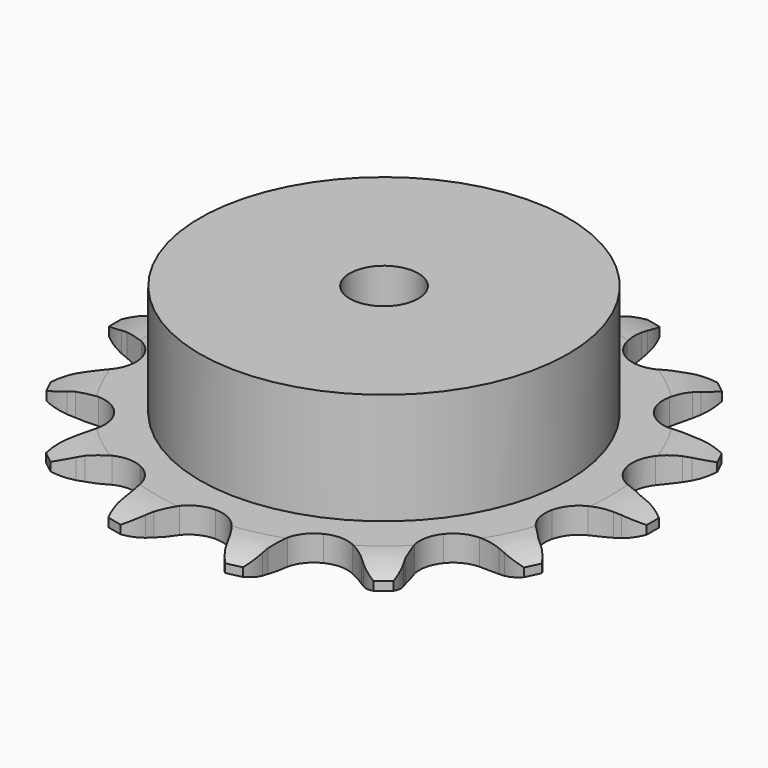
from build123d import *

# Parameters (mm, degrees)
PAD_DEPTH         = 3
SKETCH001_R       = 21.5
PAD001_DEPTH      = 16
SKETCH002_R       = 4
POCKET_DEPTH      = 0.0010001
POCKET_DEPTH_BACK = 16.001


with BuildPart() as part:
    # Sprocket → Pad (new body)
    with BuildSketch(Plane.XY):
        with BuildLine():
            ThreePointArc((-7.2280501726, 31.6681569624), (-5.7688254974, 30.4640340573), (-4.7196458315, 28.8897181259))
            Line((-4.7196458315, 28.8897181259), (-4.3628849353, 28.1344973083))
            ThreePointArc((-4.3628849353, 28.1344973083), (-3.7671558214, 27.0502297852), (-3.0437282108, 26.0466453438))
            ThreePointArc((-3.0437282108, 26.0466453438), (-1.6841190704, 24.9830367993), (0, 24.6041659672))
            ThreePointArc((0, 24.6041659672), (1.6841190704, 24.9830367993), (3.0437282108, 26.0466453438))
            ThreePointArc((3.0437282108, 26.0466453438), (3.7671558214, 27.0502297852), (4.3628849353, 28.1344973083))
            Line((4.3628849353, 28.1344973083), (4.7196458315, 28.8897181259))
            ThreePointArc((4.7196458315, 28.8897181259), (5.7688254974, 30.4640340573), (7.2280501726, 31.6681569624))
            ThreePointArc((7.2280501726, 31.6681569624), (8.0203168278, 29.9501458535), (8.2825249608, 28.0765142146))
            Line((8.2825249608, 28.0765142146), (8.2762773894, 27.2412910179))
            ThreePointArc((8.2762773894, 27.2412910179), (8.3425647276, 26.0059225597), (8.558911513, 24.7878407451))
            ThreePointArc((8.558911513, 24.7878407451), (9.3223945687, 23.2396502612), (10.6753475277, 22.1675875572))
            ThreePointArc((10.6753475277, 22.1675875572), (12.3570722733, 21.7782265024), (14.0435202335, 22.1465923911))
            Line((14.0435202335, 22.1465923911), (16.1379243912, 23.4553213598))
            ThreePointArc((16.1379243912, 23.4553213598), (16.4570601233, 23.7248315145), (16.7870328842, 23.9809590532))
            ThreePointArc((16.7870328842, 23.9809590532), (18.4153811829, 24.9441466992), (20.252546535, 25.3958900915))
            ThreePointArc((20.252546535, 25.3958900915), (20.2209370426, 23.504263949), (19.6442401061, 21.7024123273))
            Line((19.6442401061, 21.7024123273), (19.2762214752, 20.9526129489))
            ThreePointArc((19.2762214752, 20.9526129489), (18.7999380175, 19.8108234295), (18.4663538434, 18.6195002838))
            ThreePointArc((18.4663538434, 18.6195002838), (18.4824936318, 16.8933659733), (19.236311553, 15.3404465638))
            ThreePointArc((19.236311553, 15.3404465638), (20.5825557629, 14.2599713543), (22.2618208416, 13.8601352052))
            Line((22.2618208416, 13.8601352052), (24.7166500028, 14.1305313553))
            ThreePointArc((24.7166500028, 14.1305313553), (25.1211174358, 14.2348838096), (25.5295421948, 14.3224769329))
            ThreePointArc((25.5295421948, 14.3224769329), (27.4145447753, 14.4837651675), (29.2657776749, 14.0936557279))
            ThreePointArc((29.2657776749, 14.0936557279), (28.4165526826, 12.4030743085), (27.1151725777, 11.0298815159))
            Line((27.1151725777, 11.0298815159), (26.4582734905, 10.5140129185))
            ThreePointArc((26.4582734905, 10.5140129185), (25.5337530168, 9.6919477553), (24.7163083202, 8.7633394381))
            ThreePointArc((24.7163083202, 8.7633394381), (23.9819081582, 7.2011433708), (23.9872881574, 5.4749419902))
            ThreePointArc((23.9872881574, 5.4749419902), (24.7314116551, 3.9173539925), (26.0708948086, 2.8285082585))
            Line((26.0708948086, 2.8285082585), (28.3999399516, 2.0070163164))
            ThreePointArc((28.3999399516, 2.0070163164), (28.8096293498, 1.9255427868), (29.2156125744, 1.8272526024))
            ThreePointArc((29.2156125744, 1.8272526024), (30.9839215577, 1.1546963126), (32.4825626251, 0))
            ThreePointArc((32.4825626251, 0), (30.9839215577, -1.1546963126), (29.2156125744, -1.8272526024))
            Line((29.2156125744, -1.8272526024), (28.3999399516, -2.0070163164))
            ThreePointArc((28.3999399516, -2.0070163164), (27.2102950803, -2.3465370358), (26.0708948086, -2.8285082585))
            ThreePointArc((26.0708948086, -2.8285082585), (24.7314116551, -3.9173539925), (23.9872881574, -5.4749419902))
            ThreePointArc((23.9872881574, -5.4749419902), (23.9819081582, -7.2011433708), (24.7163083202, -8.7633394381))
            Line((24.7163083202, -8.7633394381), (26.4582734905, -10.5140129185))
            ThreePointArc((26.4582734905, -10.5140129185), (26.7920408441, -10.7651756001), (27.1151725777, -11.0298815159))
            ThreePointArc((27.1151725777, -11.0298815159), (28.4165526826, -12.4030743085), (29.2657776749, -14.0936557279))
            ThreePointArc((29.2657776749, -14.0936557279), (27.4145447753, -14.4837651675), (25.5295421948, -14.3224769329))
            Line((25.5295421948, -14.3224769329), (24.7166500028, -14.1305313553))
            ThreePointArc((24.7166500028, -14.1305313553), (23.4975044907, -13.9202613885), (22.2618208416, -13.8601352052))
            ThreePointArc((22.2618208416, -13.8601352052), (20.5825557629, -14.2599713543), (19.236311553, -15.3404465638))
            ThreePointArc((19.236311553, -15.3404465638), (18.4824936318, -16.8933659733), (18.4663538434, -18.6195002838))
            Line((18.4663538434, -18.6195002838), (19.2762214752, -20.9526129489))
            ThreePointArc((19.2762214752, -20.9526129489), (19.4679600665, -21.3237189333), (19.6442401061, -21.7024123273))
            ThreePointArc((19.6442401061, -21.7024123273), (20.2209370426, -23.504263949), (20.252546535, -25.3958900915))
            ThreePointArc((20.252546535, -25.3958900915), (18.4153811829, -24.9441466992), (16.7870328842, -23.9809590532))
            Line((16.7870328842, -23.9809590532), (16.1379243912, -23.4553213598))
            ThreePointArc((16.1379243912, -23.4553213598), (15.1307449588, -22.7369072525), (14.0435202335, -22.1465923911))
            ThreePointArc((14.0435202335, -22.1465923911), (12.3570722733, -21.7782265024), (10.6753475277, -22.1675875572))
            ThreePointArc((10.6753475277, -22.1675875572), (9.3223945687, -23.2396502612), (8.558911513, -24.7878407451))
            Line((8.558911513, -24.7878407451), (8.2762773894, -27.2412910179))
            ThreePointArc((8.2762773894, -27.2412910179), (8.2880110388, -27.6588382134), (8.2825249608, -28.0765142146))
            ThreePointArc((8.2825249608, -28.0765142146), (8.0203168278, -29.9501458535), (7.2280501726, -31.6681569624))
            ThreePointArc((7.2280501726, -31.6681569624), (5.7688254974, -30.4640340573), (4.7196458315, -28.8897181259))
            Line((4.7196458315, -28.8897181259), (4.3628849353, -28.1344973083))
            ThreePointArc((4.3628849353, -28.1344973083), (3.7671558214, -27.0502297852), (3.0437282108, -26.0466453438))
            ThreePointArc((3.0437282108, -26.0466453438), (1.6841190704, -24.9830367993), (0, -24.6041659672))
            ThreePointArc((0, -24.6041659672), (-1.6841190704, -24.9830367993), (-3.0437282108, -26.0466453438))
            Line((-3.0437282108, -26.0466453438), (-4.3628849353, -28.1344973083))
            ThreePointArc((-4.3628849353, -28.1344973083), (-4.5334802209, -28.515785372), (-4.7196458315, -28.8897181259))
            ThreePointArc((-4.7196458315, -28.8897181259), (-5.7688254974, -30.4640340573), (-7.2280501726, -31.6681569624))
            ThreePointArc((-7.2280501726, -31.6681569624), (-8.0203168278, -29.9501458535), (-8.2825249608, -28.0765142146))
            Line((-8.2825249608, -28.0765142146), (-8.2762773894, -27.2412910179))
            ThreePointArc((-8.2762773894, -27.2412910179), (-8.3425647276, -26.0059225597), (-8.558911513, -24.7878407451))
            ThreePointArc((-8.558911513, -24.7878407451), (-9.3223945687, -23.2396502612), (-10.6753475277, -22.1675875572))
            ThreePointArc((-10.6753475277, -22.1675875572), (-12.3570722733, -21.7782265024), (-14.0435202335, -22.1465923911))
            Line((-14.0435202335, -22.1465923911), (-16.1379243912, -23.4553213598))
            ThreePointArc((-16.1379243912, -23.4553213598), (-16.4570601233, -23.7248315145), (-16.7870328842, -23.9809590532))
            ThreePointArc((-16.7870328842, -23.9809590532), (-18.4153811829, -24.9441466992), (-20.252546535, -25.3958900915))
            ThreePointArc((-20.252546535, -25.3958900915), (-20.2209370426, -23.504263949), (-19.6442401061, -21.7024123273))
            Line((-19.6442401061, -21.7024123273), (-19.2762214752, -20.9526129489))
            ThreePointArc((-19.2762214752, -20.9526129489), (-18.7999380175, -19.8108234295), (-18.4663538434, -18.6195002838))
            ThreePointArc((-18.4663538434, -18.6195002838), (-18.4824936318, -16.8933659733), (-19.236311553, -15.3404465638))
            ThreePointArc((-19.236311553, -15.3404465638), (-20.5825557629, -14.2599713543), (-22.2618208416, -13.8601352052))
            Line((-22.2618208416, -13.8601352052), (-24.7166500028, -14.1305313553))
            ThreePointArc((-24.7166500028, -14.1305313553), (-25.1211174358, -14.2348838096), (-25.5295421948, -14.3224769329))
            ThreePointArc((-25.5295421948, -14.3224769329), (-27.4145447753, -14.4837651675), (-29.2657776749, -14.0936557279))
            ThreePointArc((-29.2657776749, -14.0936557279), (-28.4165526826, -12.4030743085), (-27.1151725777, -11.0298815159))
            Line((-27.1151725777, -11.0298815159), (-26.4582734905, -10.5140129185))
            ThreePointArc((-26.4582734905, -10.5140129185), (-25.5337530168, -9.6919477553), (-24.7163083202, -8.7633394381))
            ThreePointArc((-24.7163083202, -8.7633394381), (-23.9819081582, -7.2011433708), (-23.9872881574, -5.4749419902))
            ThreePointArc((-23.9872881574, -5.4749419902), (-24.7314116551, -3.9173539925), (-26.0708948086, -2.8285082585))
            Line((-26.0708948086, -2.8285082585), (-28.3999399516, -2.0070163164))
            ThreePointArc((-28.3999399516, -2.0070163164), (-28.8096293498, -1.9255427868), (-29.2156125744, -1.8272526024))
            ThreePointArc((-29.2156125744, -1.8272526024), (-30.9839215577, -1.1546963126), (-32.4825626251, 0))
            ThreePointArc((-32.4825626251, 0), (-30.9839215577, 1.1546963126), (-29.2156125744, 1.8272526024))
            Line((-29.2156125744, 1.8272526024), (-28.3999399516, 2.0070163164))
            ThreePointArc((-28.3999399516, 2.0070163164), (-27.2102950803, 2.3465370358), (-26.0708948086, 2.8285082585))
            ThreePointArc((-26.0708948086, 2.8285082585), (-24.7314116551, 3.9173539925), (-23.9872881574, 5.4749419902))
            ThreePointArc((-23.9872881574, 5.4749419902), (-23.9819081582, 7.2011433708), (-24.7163083202, 8.7633394381))
            Line((-24.7163083202, 8.7633394381), (-26.4582734905, 10.5140129185))
            ThreePointArc((-26.4582734905, 10.5140129185), (-26.7920408441, 10.7651756001), (-27.1151725777, 11.0298815159))
            ThreePointArc((-27.1151725777, 11.0298815159), (-28.4165526826, 12.4030743085), (-29.2657776749, 14.0936557279))
            ThreePointArc((-29.2657776749, 14.0936557279), (-27.4145447753, 14.4837651675), (-25.5295421948, 14.3224769329))
            Line((-25.5295421948, 14.3224769329), (-24.7166500028, 14.1305313553))
            ThreePointArc((-24.7166500028, 14.1305313553), (-23.4975044907, 13.9202613885), (-22.2618208416, 13.8601352052))
            ThreePointArc((-22.2618208416, 13.8601352052), (-20.5825557629, 14.2599713543), (-19.236311553, 15.3404465638))
            ThreePointArc((-19.236311553, 15.3404465638), (-18.4824936318, 16.8933659733), (-18.4663538434, 18.6195002838))
            Line((-18.4663538434, 18.6195002838), (-19.2762214752, 20.9526129489))
            ThreePointArc((-19.2762214752, 20.9526129489), (-19.4679600665, 21.3237189333), (-19.6442401061, 21.7024123273))
            ThreePointArc((-19.6442401061, 21.7024123273), (-20.2209370426, 23.504263949), (-20.252546535, 25.3958900915))
            ThreePointArc((-20.252546535, 25.3958900915), (-18.4153811829, 24.9441466992), (-16.7870328842, 23.9809590532))
            Line((-16.7870328842, 23.9809590532), (-16.1379243912, 23.4553213598))
            ThreePointArc((-16.1379243912, 23.4553213598), (-15.1307449588, 22.7369072525), (-14.0435202335, 22.1465923911))
            ThreePointArc((-14.0435202335, 22.1465923911), (-12.3570722733, 21.7782265024), (-10.6753475277, 22.1675875572))
            ThreePointArc((-10.6753475277, 22.1675875572), (-9.3223945687, 23.2396502612), (-8.558911513, 24.7878407451))
            Line((-8.558911513, 24.7878407451), (-8.2762773894, 27.2412910179))
            ThreePointArc((-8.2762773894, 27.2412910179), (-8.2880110388, 27.6588382134), (-8.2825249608, 28.0765142146))
            ThreePointArc((-8.2825249608, 28.0765142146), (-8.0203168278, 29.9501458535), (-7.2280501726, 31.6681569624))
        make_face()
    extrude(amount=PAD_DEPTH)

    # Sketch → Groove (revolve, cut)
    with BuildSketch(Plane.XZ):
        with BuildLine():
            Line((26.4, 0), (31.4, 0))
            Line((36.4, 0), (31.4, 0))
            Line((36.4, 3), (36.4, 0))
            Line((31.4, 3), (36.4, 3))
            Line((26.4, 3), (31.4, 3))
            ThreePointArc((31.4, 2), (28.9495097568, 2.747548784), (26.4, 3))
            Line((31.4, 1), (31.4, 2))
            ThreePointArc((26.4, 0), (28.9495097568, 0.252451216), (31.4, 1))
        make_face()
    revolve(axis=Axis((0, 0, 0), (0, 0, 1)), mode=Mode.SUBTRACT)

    # Sketch001 → Pad001 (join)
    with BuildSketch(Plane.XY):
        Circle(SKETCH001_R)
    extrude(amount=PAD001_DEPTH)

    # Sketch002 → Pocket (cut, two sides)
    with BuildSketch(Plane.XY) as pocket_sk:
        Circle(SKETCH002_R)
    extrude(amount=-POCKET_DEPTH, mode=Mode.SUBTRACT)
    extrude(pocket_sk.sketch, amount=POCKET_DEPTH_BACK, mode=Mode.SUBTRACT)


solid = part.part
